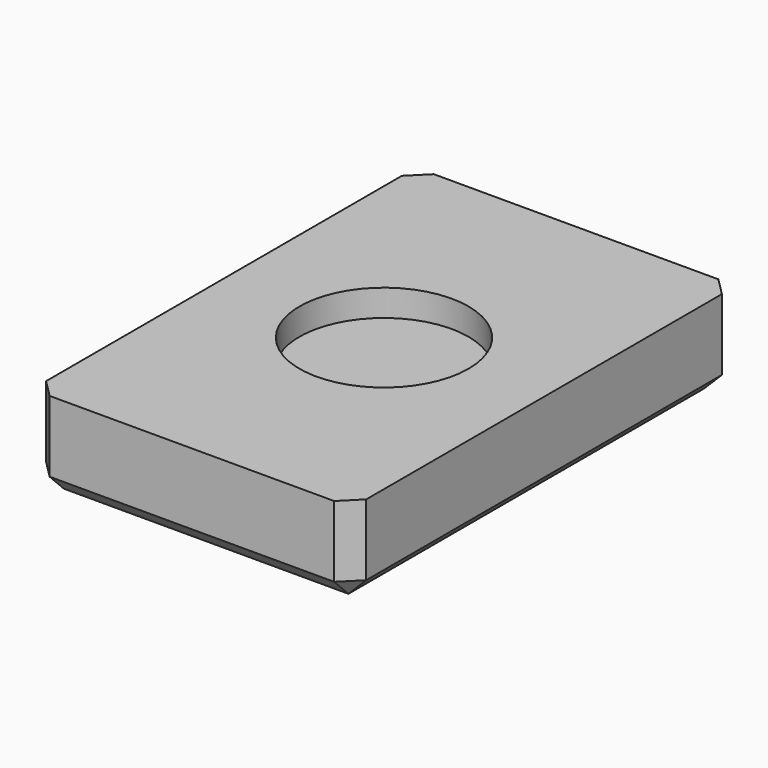
from build123d import *

# Parameters (mm, degrees)
F0_W     = 18
F0_H     = 27
F1_DEPTH = 5
F2_SIZE  = 1
F3_R     = 4.75
F4_DEPTH = 1.5


with BuildPart() as f1:
    # F0 (on Top) → F1 (new body)
    with BuildSketch(Plane.XY):
        with Locations((13.321646, 17.421494)):
            Rectangle(F0_W, F0_H)
    extrude(amount=F1_DEPTH)

    # F2
    f2_edges = [f1.edges().sort_by_distance(p)[0] for p in [
        (4.321646, 30.921494, 2.5),
        (4.321646, 3.921494, 2.5),
        (22.321646, 3.921494, 2.5),
        (22.321646, 30.921494, 2.5),
        (22.321646, 17.421494, 0),
        (4.321646, 17.421494, 0),
        (13.321646, 3.921494, 0),
        (13.321646, 30.921494, 0),
    ]]
    chamfer(f2_edges, length=F2_SIZE)

    # F3 (on face) → F4 (cut)
    with BuildSketch(Plane.XY.offset(5)):
        with Locations((13.321646, 17.421494)):
            Circle(F3_R)
    extrude(amount=-F4_DEPTH, mode=Mode.SUBTRACT)


solid = f1.part
